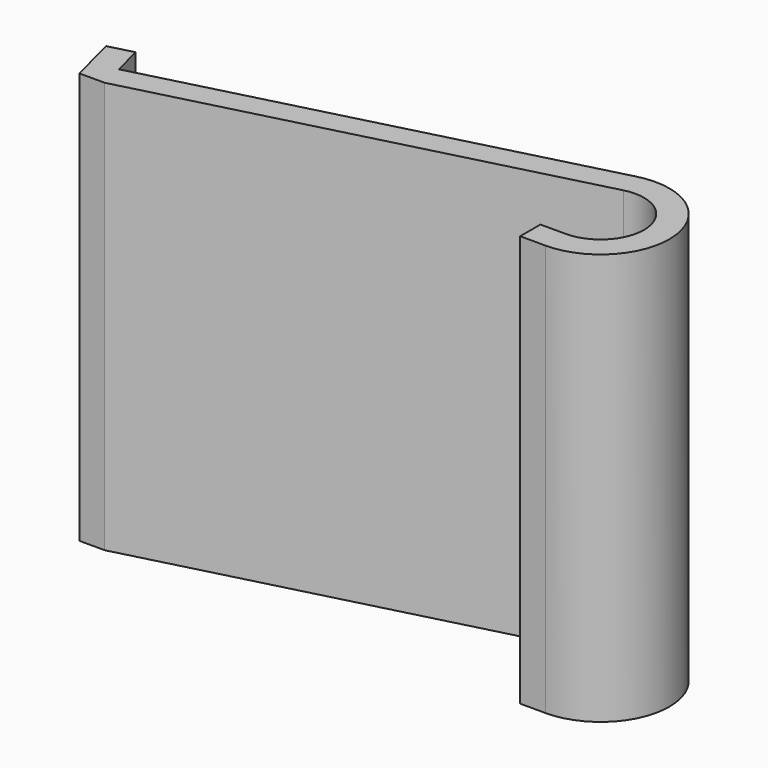
from build123d import *

# Parameters (mm, degrees)
PAD_DEPTH = 130


with BuildPart() as part:
    # Sketch → Pad (new body)
    with BuildSketch(Plane.XY):
        with BuildLine():
            Line((0, 0), (8, 0))
            Line((8, 0), (143.800384, 35.063508))
            ThreePointArc((147.237874, 8), (160.878343, 23.482615), (143.800384, 35.063508))
            Line((139.237875, 8), (147.237874, 8))
            Line((139.237875, 8), (139.237875, 0))
            Line((139.237875, 0), (147.237875, 0))
            ThreePointArc((147.237875, 0), (168.81458, 24.49065), (141.800384, 42.809475))
            Line((6.245967, 7.809475), (141.800384, 42.809475))
            Line((3.745967, 17.491933), (6.245967, 7.809475))
            Line((-4, 15.491933), (3.745967, 17.491933))
            Line((0, 0), (-4, 15.491933))
        make_face()
    extrude(amount=PAD_DEPTH)


solid = part.part
